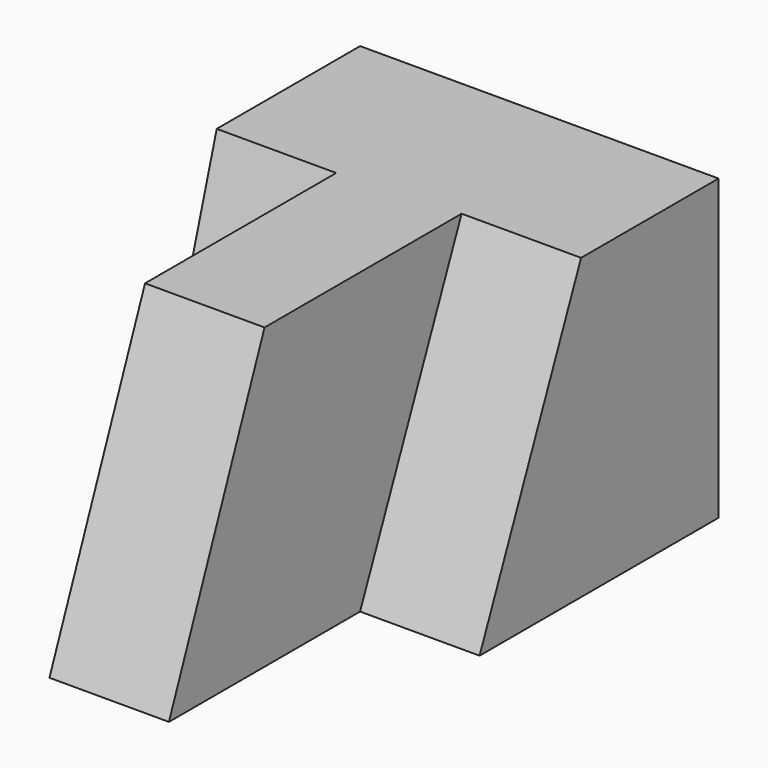
from build123d import *

# Parameters (mm, degrees)
F0_W     = 38.1
F0_H     = 31.75
F1_DEPTH = 57.15
F3_DEPTH = 12.7
F5_DEPTH = 12.7
F7_DEPTH = 25.4


with BuildPart() as f1:
    # F0 (on Front) → F1 (new body)
    with BuildSketch(Plane.XZ):
        with Locations((19.05, 15.875)):
            Rectangle(F0_W, F0_H)
    extrude(amount=F1_DEPTH)

    # F2 (on face) → F3 (cut)
    with BuildSketch(Plane(origin=(0, 0, 0), x_dir=(0, -1, 0), z_dir=(-1, 0, 0))):
        Polygon((57.15, 31.75), (19.05, 31.75), (28.575, 0), (57.15, 0), align=None)
    extrude(amount=-F3_DEPTH, mode=Mode.SUBTRACT)

    # F4 (on face) → F5 (cut)
    with BuildSketch(Plane.YZ.offset(38.1)):
        Polygon((-31.75, 0), (-18.2607397437, 31.75), (-57.15, 31.75), (-57.15, 0), align=None)
    extrude(amount=-F5_DEPTH, mode=Mode.SUBTRACT)

    # F6 (on face) → F7 (cut)
    with BuildSketch(Plane(origin=(12.7, 0, 0), x_dir=(0, -1, 0), z_dir=(-1, 0, 0))):
        Polygon((57.15, 0), (57.15, 31.75), (44.45, 31.75), align=None)
    extrude(amount=-F7_DEPTH, mode=Mode.SUBTRACT)


solid = f1.part
